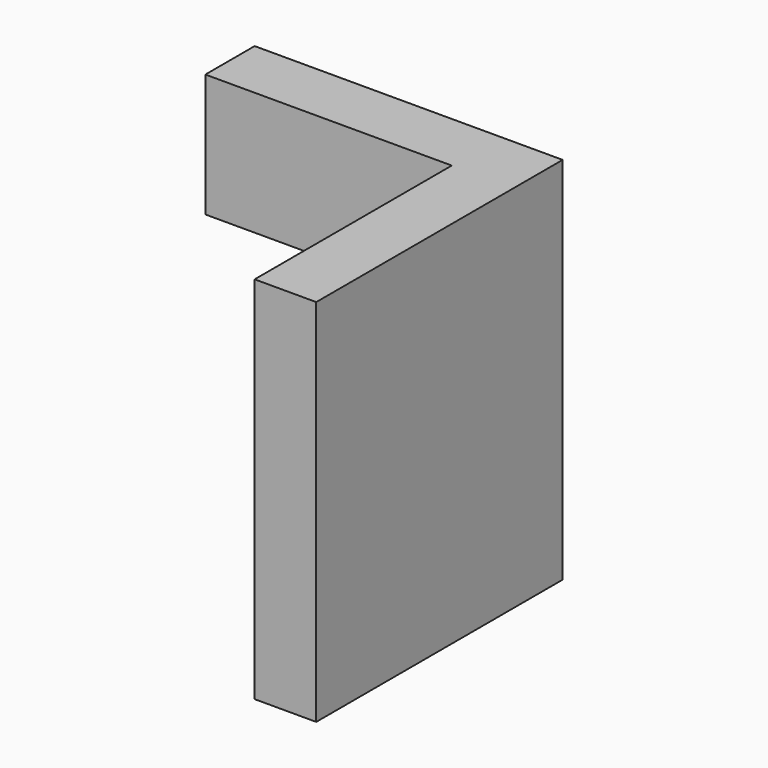
from build123d import *

# Parameters (mm, degrees)
F1_DEPTH = 12.7
F2_W     = 12.7
F2_H     = 76.2
F3_DEPTH = 50.8


with BuildPart() as f1:
    # F0 (on Front) → F1 (new body)
    with BuildSketch(Plane.XZ):
        Polygon((36.304801, 33.762489), (-27.195199, 33.762489), (-27.195199, 8.362489), (-1.795199, 8.362489), (-1.795199, -4.337511), (-14.495199, -4.337511), (-14.495199, -17.037511), (10.904801, -17.037511), (10.904801, -42.437511), (36.304801, -42.437511), align=None)
    extrude(amount=F1_DEPTH)

    # F2 (on face) → F3 (join)
    with BuildSketch(Plane.XZ.offset(12.7)):
        with Locations((29.954801, -4.337511)):
            Rectangle(F2_W, F2_H)
    extrude(amount=F3_DEPTH)


solid = f1.part
